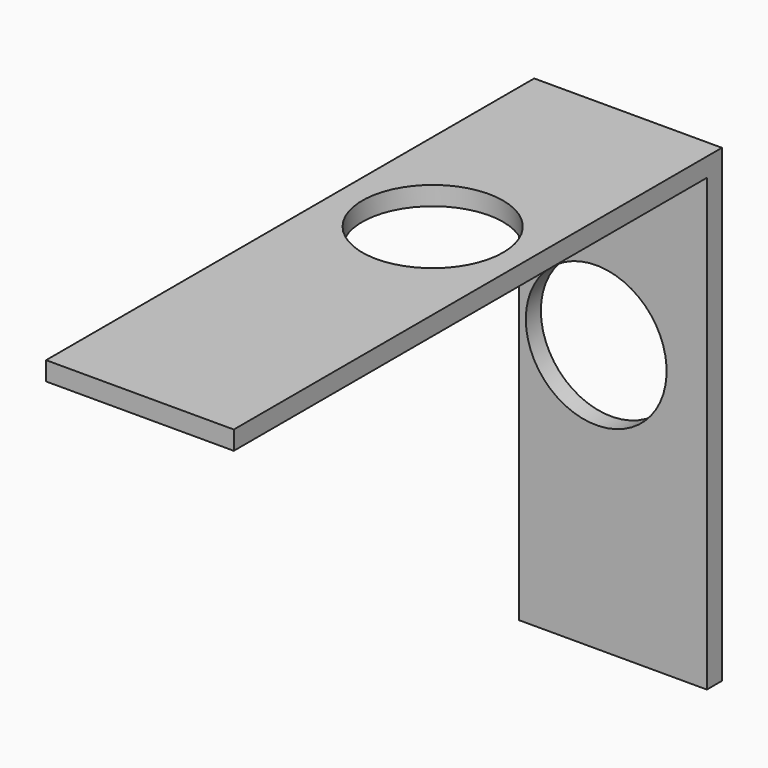
from build123d import *

# Parameters (mm, degrees)
SKETCH002_W     = 4
SKETCH002_H     = 13
SKETCH002_R     = 1.5
PAD002_DEPTH    = 10
SKETCH003_W     = 12.732194
SKETCH003_H     = 9.787396
POCKET_DEPTH    = 5
SKETCH004_R     = 1.5
POCKET001_DEPTH = 5


with BuildPart() as part:
    # Sketch002 → Pad002 (new body)
    with BuildSketch(Plane.XY):
        with Locations((-10.268592, 10.465797)):
            Rectangle(SKETCH002_W, SKETCH002_H)
        with Locations((-10.253053, 11.743256)):
            Circle(SKETCH002_R, mode=Mode.SUBTRACT)
    extrude(amount=-PAD002_DEPTH)

    # Sketch003 (on Face2 of Pad002) → Pocket (cut)
    with BuildSketch(Plane.YZ.offset(-8.268592)):
        with Locations((10.199147, -5.293698)):
            Rectangle(SKETCH003_W, SKETCH003_H)
    extrude(amount=-POCKET_DEPTH, mode=Mode.SUBTRACT)

    # Sketch004 (on Face6 of Pocket) → Pocket001 (cut)
    with BuildSketch(Plane(origin=(0, 16.965797, 0), x_dir=(-1, 0, 0), z_dir=(0, 1, 0))):
        with Locations((10.62654, -4.306276)):
            Circle(SKETCH004_R)
    extrude(amount=-POCKET001_DEPTH, mode=Mode.SUBTRACT)


solid = part.part
